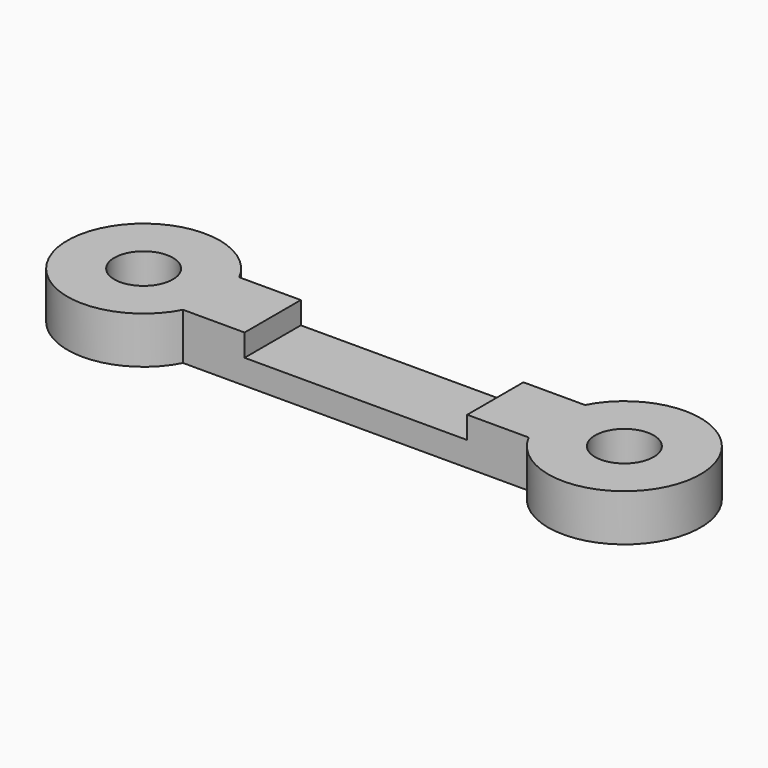
from build123d import *

# Parameters (mm, degrees)
SKETCH_R     = 2.5
PAD_DEPTH    = 4
SKETCH001_W  = 19
SKETCH001_H  = 6
POCKET_DEPTH = 1.9


with BuildPart() as part:
    # Sketch → Pad (new body)
    with BuildSketch(Plane.XY):
        with BuildLine():
            Line((-14.75, 3), (14.75, 3))
            ThreePointArc((14.75, -3), (27.016281, 0), (14.75, 3))
            Line((14.75, -3), (-14.75, -3))
            ThreePointArc((-14.75, 3), (-27.016281, 0), (-14.75, -3))
        make_face()
        with Locations((-20.516281, 0)):
            Circle(SKETCH_R, mode=Mode.SUBTRACT)
        with Locations((20.516281, 0)):
            Circle(SKETCH_R, mode=Mode.SUBTRACT)
    extrude(amount=PAD_DEPTH)

    # Sketch001 → Pocket (cut)
    with BuildSketch(Plane.XY.offset(4)):
        Rectangle(SKETCH001_W, SKETCH001_H)
    extrude(amount=-POCKET_DEPTH, mode=Mode.SUBTRACT)


solid = part.part
